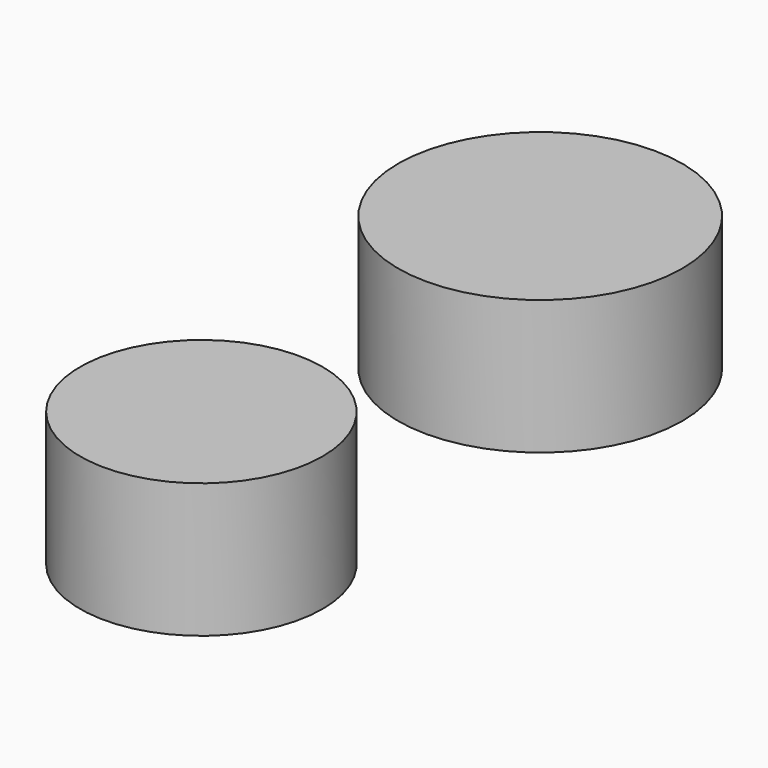
from build123d import *

# Parameters (mm, degrees)
F0_R     = 22.932547
F1_DEPTH = 25.4
F2_R     = 26.869348
F3_DEPTH = 25.4


with BuildPart() as f1:
    # F0 (on Top) → F1 (new body)
    with BuildSketch(Plane.XY):
        with Locations((0, -43.294284)):
            Circle(F0_R)
    extrude(amount=F1_DEPTH)


with BuildPart() as f3:
    # F2 (on Top) → F3 (new body)
    with BuildSketch(Plane.XY):
        with Locations((0, 36.813341)):
            Circle(F2_R)
        with Locations((0, 36.813341)):
            Circle(F2_R)
    extrude(amount=F3_DEPTH)


solid = Compound([f1.part, f3.part])
